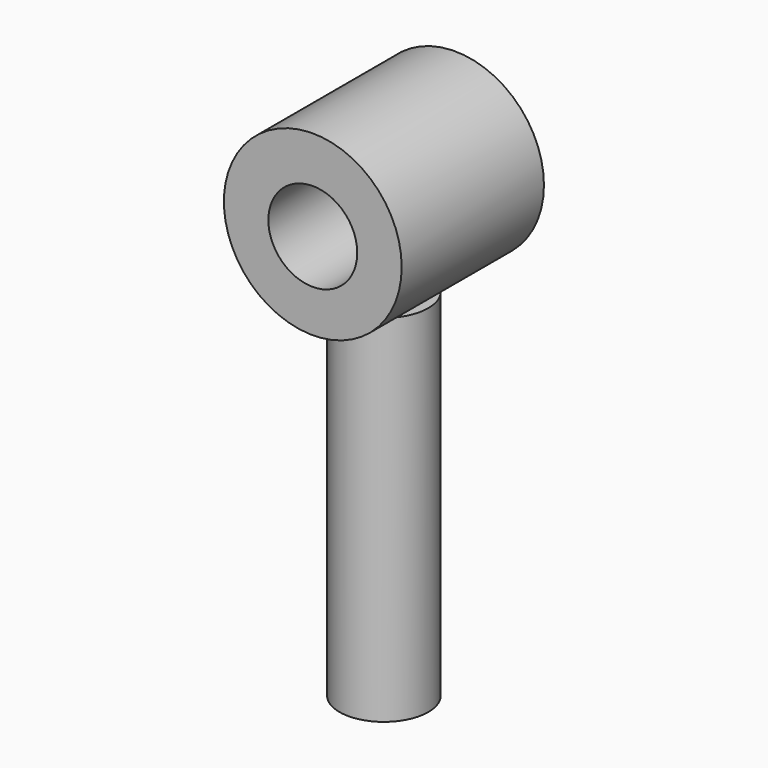
from build123d import *

# Parameters (mm, degrees)
F0_R     = 6.35
F1_DEPTH = 50.8
F2_R     = 12.7
F3_DEPTH = 12.7
F4_R     = 6.35
F5_DEPTH = 12.7


with BuildPart() as f1:
    # F0 (on Top) → F1 (new body)
    with BuildSketch(Plane.XY):
        Circle(F0_R)
    extrude(amount=-F1_DEPTH)

    # F2 (on Front) → F3 (join, symmetric)
    with BuildSketch(Plane.XZ):
        with Locations((0, 12.382501)):
            Circle(F2_R)
    extrude(amount=F3_DEPTH, both=True)

    # F4 (on Front) → F5 (cut, symmetric)
    with BuildSketch(Plane.XZ):
        with Locations((0, 12.110357)):
            Circle(F4_R)
    extrude(amount=F5_DEPTH, both=True, mode=Mode.SUBTRACT)


solid = f1.part
